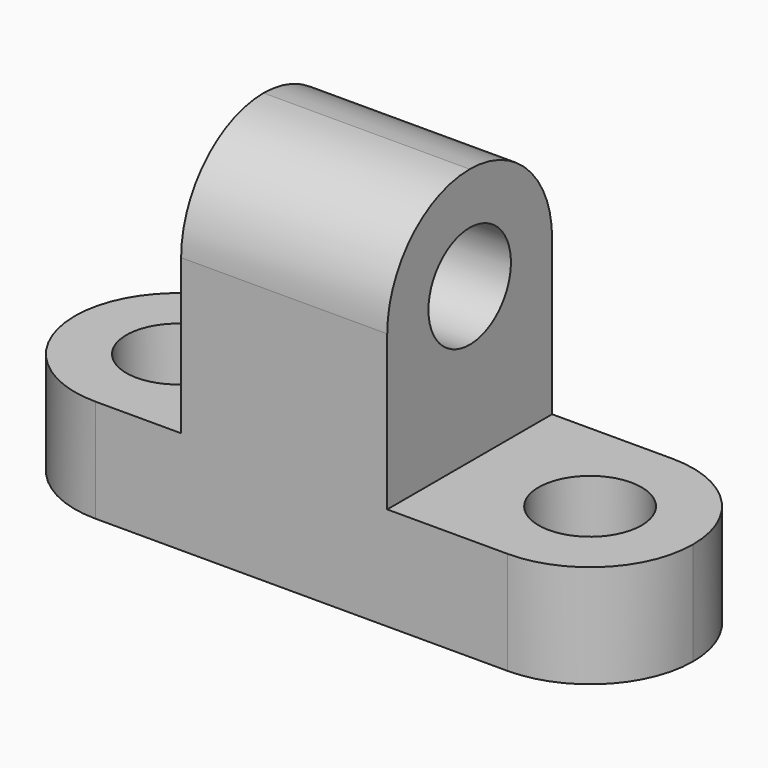
from build123d import *

# Parameters (mm, degrees)
F0_W      = 76.2
F0_H      = 57.15
F1_DEPTH  = 25.4
F2_W      = 76.2
F2_H      = 12.7
F3_DEPTH  = 25.4
F4_W      = 23.2585646868
F4_H      = 25.4
F4_W_2    = 27.5414353132
F5_DEPTH  = 31.75
F6_R      = 6.35
F7_DEPTH  = 25.4
F8_R      = 6.35
F9_DEPTH  = 25.4
F10_R     = 6.35
F11_DEPTH = 25.4


with BuildPart() as f1:
    # F0 (on Front) → F1 (new body)
    with BuildSketch(Plane.XZ):
        with Locations((38.1, 28.575)):
            Rectangle(F0_W, F0_H)
    extrude(amount=F1_DEPTH)

    # F2 (on face) → F3 (cut)
    with BuildSketch(Plane.XZ.offset(25.4)):
        with Locations((38.1, 50.8)):
            Rectangle(F2_W, F2_H)
    extrude(amount=-F3_DEPTH, mode=Mode.SUBTRACT)

    # F4 (on face) → F5 (cut)
    with BuildSketch(Plane.XY.offset(44.45)):
        with Locations((11.6292823434, -12.7)):
            Rectangle(F4_W, F4_H)
        with Locations((62.4292823434, -12.7)):
            Rectangle(F4_W_2, F4_H)
    extrude(amount=-F5_DEPTH, mode=Mode.SUBTRACT)

    # F6 (on face) → F7 (cut)
    with BuildSketch(Plane.XY.offset(12.7)):
        with BuildLine():
            ThreePointArc((63.5, 0), (72.4802561211, -3.7197438789), (76.2, -12.7))
            Line((76.2, -12.7), (76.2, 0))
            Line((76.2, 0), (63.5, 0))
        make_face()
        with BuildLine():
            ThreePointArc((76.2, -12.7), (72.4802561211, -21.6802561211), (63.5, -25.4))
            Line((63.5, -25.4), (76.2, -25.4))
            Line((76.2, -25.4), (76.2, -12.7))
        make_face()
        with Locations((63.5, -12.7)):
            Circle(F6_R)
    extrude(amount=-F7_DEPTH, mode=Mode.SUBTRACT)

    # F8 (on face) → F9 (cut)
    with BuildSketch(Plane.XY.offset(12.7)):
        with BuildLine():
            ThreePointArc((12.7000000282, -25.4), (3.7197439071, -21.6802561211), (2.82e-08, -12.7))
            Line((0, -12.7), (0, -25.4))
            Line((0, -25.4), (12.7000000282, -25.4))
        make_face()
        with BuildLine():
            ThreePointArc((2.82e-08, -12.7), (3.7197438971, -3.7197438889), (12.7, 0))
            Line((12.7, 0), (0, 0))
            Line((0, 0), (0, -12.7))
        make_face()
        with Locations((12.7000000282, -12.7)):
            Circle(F8_R)
    extrude(amount=-F9_DEPTH, mode=Mode.SUBTRACT)

    # F10 (on face) → F11 (cut)
    with BuildSketch(Plane(origin=(23.2585646868, 0, 0), x_dir=(0, -1, 0), z_dir=(-1, 0, 0))):
        with BuildLine():
            ThreePointArc((0, 31.7500000226), (3.7197438789, 40.7302561436), (12.7, 44.4500000226))
            Line((12.7, 44.45), (0, 44.45))
            Line((0, 44.45), (0, 31.7500000226))
        make_face()
        with BuildLine():
            ThreePointArc((12.7, 44.4500000226), (21.680256129, 40.7302561357), (25.4, 31.75))
            Line((25.4, 31.75), (25.4, 44.45))
            Line((25.4, 44.45), (12.7, 44.45))
        make_face()
        with Locations((12.7, 31.7500000226)):
            Circle(F10_R)
    extrude(amount=-F11_DEPTH, mode=Mode.SUBTRACT)


solid = f1.part
